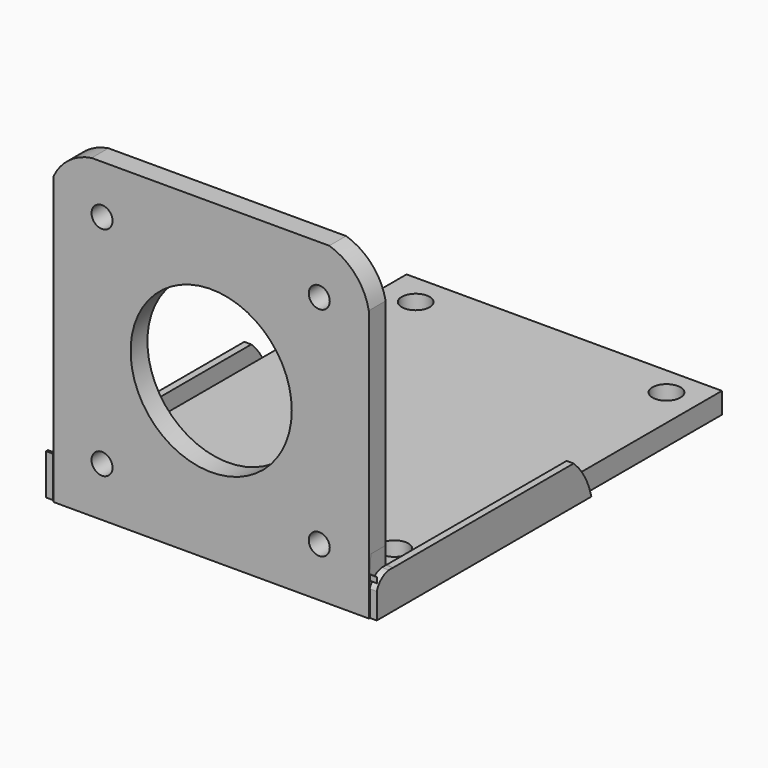
from build123d import *

# Parameters (mm, degrees)
SKETCH_W        = 45
SKETCH_H        = 45
PAD_DEPTH       = 3
SKETCH007_W     = 45
SKETCH007_H     = 3
PAD001_DEPTH    = 60
POCKET_DEPTH    = 2.5
SKETCH004_R     = 11.5
SKETCH004_R_2   = 1.5
POCKET001_DEPTH = 3
SKETCH005_R     = 2
POCKET002_DEPTH = 5
SKETCH008_W     = 5.466466
SKETCH008_H     = 38.267721
PAD002_DEPTH    = 1
POCKET003_DEPTH = 1
SKETCH010_W     = 5.830426
SKETCH010_H     = 38.5055
PAD003_DEPTH    = 1
POCKET004_DEPTH = 1


with BuildPart() as part:
    # Sketch → Pad (new body)
    with BuildSketch(Plane.XZ):
        with Locations((0.043154, 22.5)):
            Rectangle(SKETCH_W, SKETCH_H)
    extrude(amount=PAD_DEPTH)

    # Sketch007 (on Face5 of Pad) → Pad001 (join)
    with BuildSketch(Plane(origin=(0, 0, 0), x_dir=(1, 0, 0), z_dir=(0, 1, 0))):
        with Locations((0.036956, -1.493426)):
            Rectangle(SKETCH007_W, SKETCH007_H)
    extrude(amount=PAD001_DEPTH)

    # Sketch003 → Pocket (cut, symmetric)
    with BuildSketch(Plane.XZ.offset(2)):
        with BuildLine():
            ThreePointArc((-16.103364, 45.081264), (-21.082356, 42.909937), (-23.129993, 37.878814))
            Line((-23.129993, 37.878814), (-23.129993, 45.081264))
            Line((-16.103364, 45.081264), (-23.129993, 45.081264))
        make_face()
        with BuildLine():
            ThreePointArc((22.687422, 37.148395), (20.279616, 42.961353), (14.466658, 45.369159))
            Line((14.466658, 45.369159), (22.687422, 45.369159))
            Line((22.687422, 37.148395), (22.687422, 45.369159))
        make_face()
    extrude(amount=POCKET_DEPTH, both=True, mode=Mode.SUBTRACT)

    # Sketch004 → Pocket001 (cut, symmetric)
    with BuildSketch(Plane.XZ.offset(2)):
        with Locations((0.049257, 22.56)):
            Circle(SKETCH004_R)
        with Locations((15.472322, 7.06)):
            Circle(SKETCH004_R_2)
        with Locations((-15.527678, 38.06)):
            Circle(SKETCH004_R_2)
        with Locations((15.472322, 38.06)):
            Circle(SKETCH004_R_2)
        with Locations((-15.527678, 7.06)):
            Circle(SKETCH004_R_2)
    extrude(amount=POCKET001_DEPTH, both=True, mode=Mode.SUBTRACT)

    # Sketch005 → Pocket002 (cut)
    with BuildSketch(Plane(origin=(0, 0, 3), x_dir=(-1, 0, 0), z_dir=(0, 0, 1))):
        with Locations((-17.816827, -7.458325)):
            Circle(SKETCH005_R)
        with Locations((18.098759, -7.214429)):
            Circle(SKETCH005_R)
        with Locations((-17.948954, -55.841232)):
            Circle(SKETCH005_R)
        with Locations((17.504663, -55.428982)):
            Circle(SKETCH005_R)
    extrude(amount=-POCKET002_DEPTH, mode=Mode.SUBTRACT)

    # Sketch008 (on Face11 of Pocket002) → Pad002 (join)
    with BuildSketch(Plane(origin=(22.536956, 0, 0), x_dir=(0, 0, 1), z_dir=(1, 0, 0))):
        with Locations((2.733233, -16.310083)):
            Rectangle(SKETCH008_W, SKETCH008_H)
    extrude(amount=PAD002_DEPTH)

    # Sketch009 (on Face27 of Pad002) → Pocket003 (cut)
    with BuildSketch(Plane(origin=(23.536956, 0, 0), x_dir=(0, 0, 1), z_dir=(1, 0, 0))):
        with BuildLine():
            ThreePointArc((5.454798, -0.127493), (5.024588, 1.810299), (3.367288, 2.902761))
            Line((3.367288, 2.902761), (7.963681, 2.626362))
            Line((7.963681, 2.626362), (7.963681, -32.524605))
            Line((7.963681, -32.524605), (6.482224, -36.026234))
            Line((6.482224, -36.026234), (0, -35.465638))
            ThreePointArc((0, -35.465638), (2.96164, -34.285148), (5.454798, -32.297931))
            Line((5.454798, -0.127493), (5.454798, -32.297931))
        make_face()
    extrude(amount=-POCKET003_DEPTH, mode=Mode.SUBTRACT)

    # Sketch010 (on Face2 of Pocket003) → Pad003 (join)
    with BuildSketch(Plane(origin=(-22.463044, 0, 0), x_dir=(0, 0, -1), z_dir=(-1, 0, 0))):
        with Locations((-3.174851, -16.191193)):
            Rectangle(SKETCH010_W, SKETCH010_H)
    extrude(amount=PAD003_DEPTH)

    # Sketch011 (on Face27 of Pad003) → Pocket004 (cut)
    with BuildSketch(Plane(origin=(-23.463044, 0, 0), x_dir=(0, 0, -1), z_dir=(-1, 0, 0))):
        with BuildLine():
            ThreePointArc((-3.367288, 2.902761), (-5.024589, 1.810299), (-5.454799, -0.127493))
            Line((-5.454799, -0.127493), (-5.454799, -32.297931))
            ThreePointArc((-5.454799, -32.297931), (-2.961641, -34.285149), (0, -35.465639))
            Line((-6.482224, -36.026234), (0, -35.465639))
            Line((-7.963681, -32.524605), (-6.482224, -36.026234))
            Line((-7.963681, 2.626362), (-7.963681, -32.524605))
            Line((-3.367288, 2.902761), (-7.963681, 2.626362))
        make_face()
    extrude(amount=-POCKET004_DEPTH, mode=Mode.SUBTRACT)


solid = part.part
